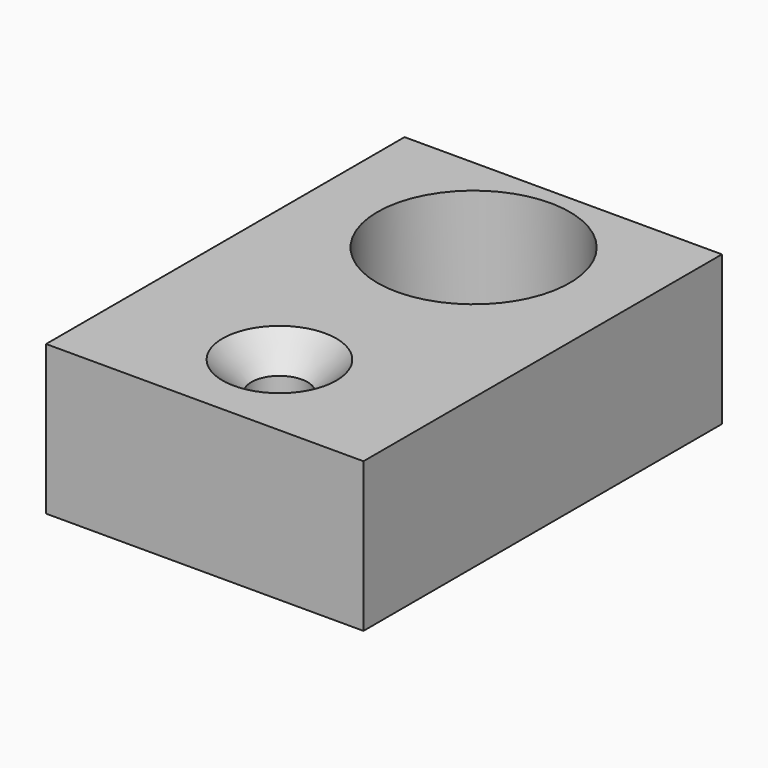
from build123d import *

# Parameters (mm, degrees)
SKETCH003_W         = 17
SKETCH003_H         = 8
PAD001_DEPTH        = 24
SKETCH005_R         = 5.15
POCKET_DEPTH        = 7
HOLE002_D           = 3
HOLE002_DEPTH       = 25
HOLE002_CSINK_D     = 6.1
HOLE002_CSINK_ANGLE = 90


with BuildPart() as part:
    # Sketch003 → Pad001 (new body)
    with BuildSketch(Plane.XZ):
        Rectangle(SKETCH003_W, SKETCH003_H)
    extrude(amount=PAD001_DEPTH)

    # Sketch005 → Pocket (cut)
    with BuildSketch(Plane(origin=(0, 0, 4), x_dir=(-1, 0, 0), z_dir=(0, 0, 1))):
        with Locations((0, 6)):
            Circle(SKETCH005_R)
    extrude(amount=-POCKET_DEPTH, mode=Mode.SUBTRACT)

    # Hole002
    with Locations(Plane(origin=(0, 0, 4), x_dir=(-1, 0, 0), z_dir=(0, 0, 1))):
        with Locations((0, 19)):
            CounterSinkHole(HOLE002_D / 2, HOLE002_CSINK_D / 2, depth=HOLE002_DEPTH, counter_sink_angle=HOLE002_CSINK_ANGLE)


solid = part.part
